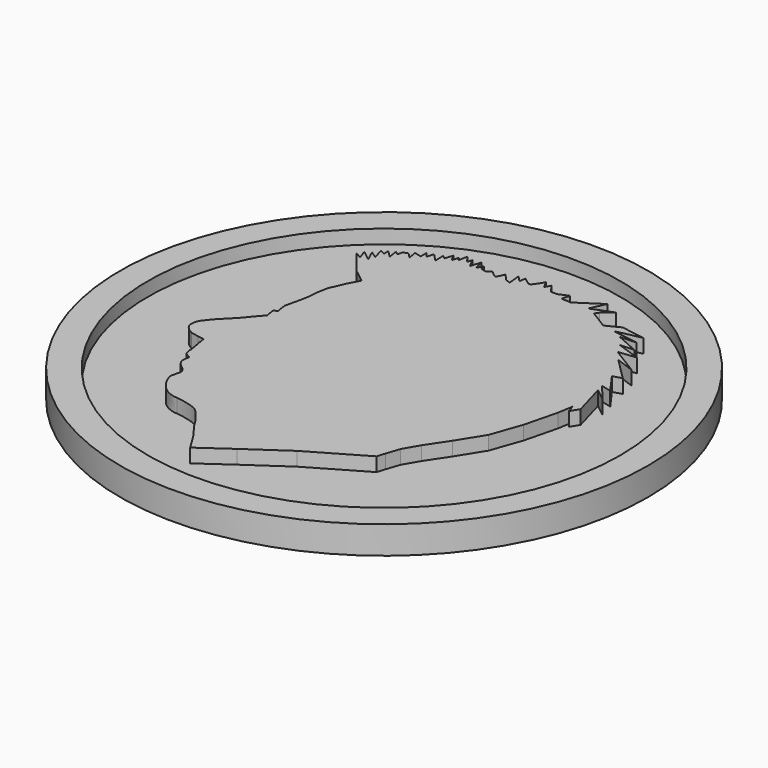
from build123d import *

# Parameters (mm, degrees)
CYLINDER001_R     = 17
CYLINDER001_DEPTH = 4
CYLINDER_R        = 19
CYLINDER_DEPTH    = 2
EXTRUDE_DEPTH     = 1


with BuildPart() as base_int:
    # Cylinder001 → Cylinder001 (new body)
    with BuildSketch(Plane.XY.offset(1)):
        Circle(CYLINDER001_R)
    extrude(amount=CYLINDER001_DEPTH)


with BuildPart() as cut:
    # Cylinder → Cylinder (new body)
    with BuildSketch(Plane.XY):
        Circle(CYLINDER_R)
    extrude(amount=CYLINDER_DEPTH)

    # Cut: cut base-int
    add(base_int.part, mode=Mode.SUBTRACT)


with BuildPart() as fusion:
    # path4167 → Extrude (new body)
    with BuildSketch(Plane(origin=(20.236395, -20.48691, 0), x_dir=(0, -1, 0), z_dir=(0, 0, -1))):
        with BuildLine():
            add(Edge.make_bspline(
                [(14.146302, 2.492305), (12.848887, 3.288234)],
                knots=[0, 0, 5.393268, 5.393268], degree=1))
            add(Edge.make_bspline(
                [(12.848887, 3.288234), (12.074997, 3.879495)],
                knots=[0, 0, 3.450853, 3.450853], degree=1))
            add(Edge.make_bspline(
                [(12.074997, 3.879495), (11.437683, 4.288827)],
                knots=[0, 0, 2.683859, 2.683859], degree=1))
            add(Edge.make_bspline(
                [(11.437683, 4.288827), (11.437683, 4.288827), (10.754821, 4.743645), (10.39065, 5.152975)],
                knots=[0, 0, 0, 0, 1, 1, 1, 1], degree=3))
            add(Edge.make_bspline(
                [(10.39065, 5.152975), (10.026465, 5.562313), (9.867136, 6.858534), (9.867136, 6.858534)],
                knots=[0, 0, 0, 0, 1, 1, 1, 1], degree=3))
            add(Edge.make_bspline(
                [(9.867136, 6.858534), (9.867136, 6.858534), (9.91265, 7.449795), (9.366375, 8.041056)],
                knots=[0, 0, 0, 0, 1, 1, 1, 1], degree=3))
            add(Edge.make_bspline(
                [(9.366375, 8.041056), (8.820106, 8.632312), (8.046205, 8.814241), (8.046205, 8.814241)],
                knots=[0, 0, 0, 0, 1, 1, 1, 1], degree=3))
            add(Edge.make_bspline(
                [(8.046205, 8.814241), (7.313065, 8.651015)],
                knots=[0, 0, 2.661344, 2.661344], degree=1))
            add(Edge.make_bspline(
                [(7.313065, 8.651015), (7.313065, 8.651015), (7.256739, 8.642943), (7.144076, 8.675117)],
                knots=[0, 0, 0, 0, 1, 1, 1, 1], degree=3))
            add(Edge.make_bspline(
                [(7.144076, 8.675117), (7.031413, 8.707279), (6.862409, 8.892199), (6.862409, 8.892199)],
                knots=[0, 0, 0, 0, 1, 1, 1, 1], degree=3))
            add(Edge.make_bspline(
                [(6.862409, 8.892199), (6.862409, 8.892199), (6.476138, 9.422845), (6.186428, 9.463042)],
                knots=[0, 0, 0, 0, 1, 1, 1, 1], degree=3))
            add(Edge.make_bspline(
                [(6.186428, 9.463042), (5.896718, 9.503244), (5.598968, 9.390683), (5.598968, 9.390683)],
                knots=[0, 0, 0, 0, 1, 1, 1, 1], degree=3))
            add(Edge.make_bspline(
                [(5.598968, 9.390683), (5.598968, 9.390683), (5.519667, 9.553291), (5.383099, 9.746587)],
                knots=[0, 0, 0, 0, 1, 1, 1, 1], degree=3))
            add(Edge.make_bspline(
                [(5.383099, 9.746587), (5.246541, 9.939887), (4.757159, 9.917146), (4.757159, 9.917146)],
                knots=[0, 0, 0, 0, 1, 1, 1, 1], degree=3))
            add(Edge.make_bspline(
                [(4.757159, 9.917146), (3.368699, 10.155923)],
                knots=[0, 0, 4.991959, 4.991959], degree=1))
            add(Edge.make_bspline(
                [(3.368699, 10.155923), (3.289033, 10.610738)],
                knots=[0, 0, 1.636085, 1.636085], degree=1))
            add(Edge.make_bspline(
                [(3.289033, 10.610738), (3.175233, 11.156516)],
                knots=[0, 0, 1.975452, 1.975452], degree=1))
            add(Edge.make_bspline(
                [(3.175233, 11.156516), (3.175233, 11.156516), (2.924862, 11.713665), (2.526528, 11.827372)],
                knots=[0, 0, 0, 0, 1, 1, 1, 1], degree=3))
            add(Edge.make_bspline(
                [(2.526528, 11.827372), (2.128205, 11.941074), (1.718486, 11.679556), (1.718486, 11.679556)],
                knots=[0, 0, 0, 0, 1, 1, 1, 1], degree=3))
            add(Edge.make_bspline(
                [(1.718486, 11.679556), (1.149456, 11.236108)],
                knots=[0, 0, 2.556199, 2.556199], degree=1))
            add(Edge.make_bspline(
                [(1.149456, 11.236108), (0.091049, 10.201405)],
                knots=[0, 0, 5.244615, 5.244615], degree=1))
            add(Edge.make_bspline(
                [(0.091049, 10.201405), (-0.466619, 9.735219)],
                knots=[0, 0, 2.575483, 2.575483], degree=1))
            add(Edge.make_bspline(
                [(-0.466619, 9.735219), (-0.899088, 9.371367)],
                knots=[0, 0, 2.002573, 2.002573], degree=1))
            add(Edge.make_bspline(
                [(-0.899088, 9.371367), (-1.103933, 9.1667)],
                knots=[0, 0, 1.026033, 1.026033], degree=1))
            add(Edge.make_bspline(
                [(-1.103933, 9.1667), (-1.832307, 9.280401)],
                knots=[0, 0, 2.612106, 2.612106], degree=1))
            add(Edge.make_bspline(
                [(-1.832307, 9.280401), (-1.889214, 9.018886)],
                knots=[0, 0, 0.948315, 0.948315], degree=1))
            add(Edge.make_bspline(
                [(-1.889214, 9.018886), (-2.276155, 9.087107)],
                knots=[0, 0, 1.392197, 1.392197], degree=1))
            add(Edge.make_bspline(
                [(-2.276155, 9.087107), (-2.663101, 9.132588)],
                knots=[0, 0, 1.380508, 1.380508], degree=1))
            add(Edge.make_bspline(
                [(-2.663101, 9.132588), (-3.061435, 9.041624)],
                knots=[0, 0, 1.447753, 1.447753], degree=1))
            add(Edge.make_bspline(
                [(-3.061435, 9.041624), (-3.653224, 8.905181)],
                knots=[0, 0, 2.151902, 2.151902], degree=1))
            add(Edge.make_bspline(
                [(-3.653224, 8.905181), (-4.358839, 8.768735)],
                knots=[0, 0, 2.546526, 2.546526], degree=1))
            add(Edge.make_bspline(
                [(-4.358839, 8.768735), (-5.155498, 8.700517)],
                knots=[0, 0, 2.83314, 2.83314], degree=1))
            add(Edge.make_bspline(
                [(-5.155498, 8.700517), (-5.826967, 8.575439)],
                knots=[0, 0, 2.420146, 2.420146], degree=1))
            add(Edge.make_bspline(
                [(-5.826967, 8.575439), (-6.919509, 8.097885)],
                knots=[0, 0, 4.224871, 4.224871], degree=1))
            add(Edge.make_bspline(
                [(-6.919509, 8.097885), (-7.74366, 7.662066)],
                knots=[0, 0, 3.303386, 3.303386], degree=1))
            add(Edge.make_bspline(
                [(-7.74366, 7.662066), (-8.467924, 8.594714)],
                knots=[0, 0, 4.184092, 4.184092], degree=1))
            add(Edge.make_bspline(
                [(-8.467924, 8.594714), (-10.206164, 10.009768)],
                knots=[0, 0, 7.941955, 7.941955], degree=1))
            add(Edge.make_bspline(
                [(-10.206164, 10.009768), (-9.889897, 9.496443)],
                knots=[0, 0, 2.136375, 2.136375], degree=1))
            add(Edge.make_bspline(
                [(-9.889897, 9.496443), (-10.595498, 9.746587)],
                knots=[0, 0, 2.652621, 2.652621], degree=1))
            add(Edge.make_bspline(
                [(-10.595498, 9.746587), (-10.003698, 8.996144)],
                knots=[0, 0, 3.386394, 3.386394], degree=1))
            add(Edge.make_bspline(
                [(-10.003698, 8.996144), (-10.800355, 9.359999)],
                knots=[0, 0, 3.103283, 3.103283], degree=1))
            add(Edge.make_bspline(
                [(-10.800355, 9.359999), (-10.458939, 8.859701)],
                knots=[0, 0, 2.146153, 2.146153], degree=1))
            add(Edge.make_bspline(
                [(-10.458939, 8.859701), (-11.278354, 9.087107)],
                knots=[0, 0, 3.013176, 3.013176], degree=1))
            add(Edge.make_bspline(
                [(-11.278354, 9.087107), (-11.073498, 8.723255)],
                knots=[0, 0, 1.479536, 1.479536], degree=1))
            add(Edge.make_bspline(
                [(-11.073498, 8.723255), (-11.483197, 8.746031)],
                knots=[0, 0, 1.453931, 1.453931], degree=1))
            add(Edge.make_bspline(
                [(-11.483197, 8.746031), (-11.005211, 8.245732)],
                knots=[0, 0, 2.451724, 2.451724], degree=1))
            add(Edge.make_bspline(
                [(-11.005211, 8.245732), (-11.710812, 8.359437)],
                knots=[0, 0, 2.532414, 2.532414], degree=1))
            add(Edge.make_bspline(
                [(-11.710812, 8.359437), (-11.505972, 8.086548)],
                knots=[0, 0, 1.20903, 1.20903], degree=1))
            add(Edge.make_bspline(
                [(-11.505972, 8.086548), (-11.870143, 8.018323)],
                knots=[0, 0, 1.312819, 1.312819], degree=1))
            add(Edge.make_bspline(
                [(-11.870143, 8.018323), (-11.983955, 7.67721)],
                knots=[0, 0, 1.27417, 1.27417], degree=1))
            add(Edge.make_bspline(
                [(-11.983955, 7.67721), (-11.619773, 7.313363)],
                knots=[0, 0, 1.824074, 1.824074], degree=1))
            add(Edge.make_bspline(
                [(-11.619773, 7.313363), (-12.257104, 7.427062)],
                knots=[0, 0, 2.293914, 2.293914], degree=1))
            add(Edge.make_bspline(
                [(-12.257104, 7.427062), (-12.120531, 6.904025)],
                knots=[0, 0, 1.915418, 1.915418], degree=1))
            add(Edge.make_bspline(
                [(-12.120531, 6.904025), (-12.644042, 6.926772)],
                knots=[0, 0, 1.85671, 1.85671], degree=1))
            add(Edge.make_bspline(
                [(-12.644042, 6.926772), (-12.302615, 6.631139)],
                knots=[0, 0, 1.600271, 1.600271], degree=1))
            add(Edge.make_bspline(
                [(-12.302615, 6.631139), (-12.803373, 6.494696)],
                knots=[0, 0, 1.839026, 1.839026], degree=1))
            add(Edge.make_bspline(
                [(-12.803373, 6.494696), (-12.234331, 5.948918)],
                knots=[0, 0, 2.793786, 2.793786], degree=1))
            add(Edge.make_bspline(
                [(-12.234331, 5.948918), (-12.985463, 5.971665)],
                knots=[0, 0, 2.66271, 2.66271], degree=1))
            add(Edge.make_bspline(
                [(-12.985463, 5.971665), (-12.757842, 5.721517)],
                knots=[0, 0, 1.198377, 1.198377], degree=1))
            add(Edge.make_bspline(
                [(-12.757842, 5.721517), (-13.349642, 5.539594)],
                knots=[0, 0, 2.193772, 2.193772], degree=1))
            add(Edge.make_bspline(
                [(-13.349642, 5.539594), (-12.848904, 5.266705)],
                knots=[0, 0, 2.02064, 2.02064], degree=1))
            add(Edge.make_bspline(
                [(-12.848904, 5.266705), (-13.32689, 5.130259)],
                knots=[0, 0, 1.761305, 1.761305], degree=1))
            add(Edge.make_bspline(
                [(-13.32689, 5.130259), (-13.099275, 4.971071)],
                knots=[0, 0, 0.98418, 0.98418], degree=1))
            add(Edge.make_bspline(
                [(-13.099275, 4.971071), (-13.736589, 4.834628)],
                knots=[0, 0, 2.309372, 2.309372], degree=1))
            add(Edge.make_bspline(
                [(-13.736589, 4.834628), (-13.235842, 4.470773)],
                knots=[0, 0, 2.193241, 2.193241], degree=1))
            add(Edge.make_bspline(
                [(-13.235842, 4.470773), (-13.577263, 4.357071)],
                knots=[0, 0, 1.275081, 1.275081], degree=1))
            add(Edge.make_bspline(
                [(-13.577263, 4.357071), (-12.939943, 4.015958)],
                knots=[0, 0, 2.561336, 2.561336], degree=1))
            add(Edge.make_bspline(
                [(-12.939943, 4.015958), (-13.668319, 3.788552)],
                knots=[0, 0, 2.70372, 2.70372], degree=1))
            add(Edge.make_bspline(
                [(-13.668319, 3.788552), (-12.962702, 3.629367)],
                knots=[0, 0, 2.563053, 2.563053], degree=1))
            add(Edge.make_bspline(
                [(-12.962702, 3.629367), (-13.395173, 3.379216)],
                knots=[0, 0, 1.770261, 1.770261], degree=1))
            add(Edge.make_bspline(
                [(-13.395173, 3.379216), (-13.053744, 3.288253)],
                knots=[0, 0, 1.251989, 1.251989], degree=1))
            add(Edge.make_bspline(
                [(-13.053744, 3.288253), (-12.985463, 2.90166)],
                knots=[0, 0, 1.391022, 1.391022], degree=1))
            add(Edge.make_bspline(
                [(-12.985463, 2.90166), (-13.213075, 2.628773)],
                knots=[0, 0, 1.259117, 1.259117], degree=1))
            add(Edge.make_bspline(
                [(-13.213075, 2.628773), (-12.848904, 2.173955)],
                knots=[0, 0, 2.064505, 2.064505], degree=1))
            add(Edge.make_bspline(
                [(-12.848904, 2.173955), (-12.826129, 2.060254)],
                knots=[0, 0, 0.410883, 0.410883], degree=1))
            add(Edge.make_bspline(
                [(-12.826129, 2.060254), (-13.372415, 1.810103)],
                knots=[0, 0, 2.128947, 2.128947], degree=1))
            add(Edge.make_bspline(
                [(-13.372415, 1.810103), (-12.894412, 1.378029)],
                knots=[0, 0, 2.283095, 2.283095], degree=1))
            add(Edge.make_bspline(
                [(-12.894412, 1.378029), (-12.735081, 1.014177)],
                knots=[0, 0, 1.407433, 1.407433], degree=1))
            add(Edge.make_bspline(
                [(-12.735081, 1.014177), (-13.668317, 1.105143)],
                knots=[0, 0, 3.322412, 3.322412], degree=1))
            add(Edge.make_bspline(
                [(-13.668317, 1.105143), (-13.235839, 0.695808)],
                knots=[0, 0, 2.109955, 2.109955], degree=1))
            add(Edge.make_bspline(
                [(-13.235839, 0.695808), (-13.691069, 0.627586)],
                knots=[0, 0, 1.631032, 1.631032], degree=1))
            add(Edge.make_bspline(
                [(-13.691069, 0.627586), (-13.34964, 0.172768)],
                knots=[0, 0, 2.015122, 2.015122], degree=1))
            add(Edge.make_bspline(
                [(-13.34964, 0.172768), (-13.34964, 0.172768), (-13.304129, 0.150021), (-13.304129, 0.013584)],
                knots=[0, 0, 0, 0, 1, 1, 1, 1], degree=3))
            add(Edge.make_bspline(
                [(-13.304129, 0.013584), (-13.304129, -0.122859), (-14.078016, -0.554936), (-14.078016, -0.554936)],
                knots=[0, 0, 0, 0, 1, 1, 1, 1], degree=3))
            add(Edge.make_bspline(
                [(-14.078016, -0.554936), (-13.531741, -0.827822)],
                knots=[0, 0, 2.163691, 2.163691], degree=1))
            add(Edge.make_bspline(
                [(-13.531741, -0.827822), (-13.941443, -1.055231)],
                knots=[0, 0, 1.660336, 1.660336], degree=1))
            add(Edge.make_bspline(
                [(-13.941443, -1.055231), (-13.326887, -1.487305)],
                knots=[0, 0, 2.661886, 2.661886], degree=1))
            add(Edge.make_bspline(
                [(-13.326887, -1.487305), (-13.326887, -1.94212)],
                knots=[0, 0, 1.61155, 1.61155], degree=1))
            add(Edge.make_bspline(
                [(-13.326887, -1.94212), (-13.622786, -2.647086)],
                knots=[0, 0, 2.709026, 2.709026], degree=1))
            add(Edge.make_bspline(
                [(-13.622786, -2.647086), (-13.053741, -2.46516)],
                knots=[0, 0, 2.116837, 2.116837], degree=1))
            add(Edge.make_bspline(
                [(-13.053741, -2.46516), (-13.008227, -3.170123)],
                knots=[0, 0, 2.503101, 2.503101], degree=1))
            add(Edge.make_bspline(
                [(-13.008227, -3.170123), (-14.146302, -4.898421)],
                knots=[0, 0, 7.332359, 7.332359], degree=1))
            add(Edge.make_bspline(
                [(-14.146302, -4.898421), (-13.053741, -4.398123)],
                knots=[0, 0, 4.257853, 4.257853], degree=1))
            add(Edge.make_bspline(
                [(-13.053741, -4.398123), (-13.645544, -5.9445)],
                knots=[0, 0, 5.866837, 5.866837], degree=1))
            add(Edge.make_bspline(
                [(-13.645544, -5.9445), (-13.053741, -5.216793)],
                knots=[0, 0, 3.323517, 3.323517], degree=1))
            add(Edge.make_bspline(
                [(-13.053741, -5.216793), (-12.780612, -5.034867)],
                knots=[0, 0, 1.162813, 1.162813], degree=1))
            add(Edge.make_bspline(
                [(-12.780612, -5.034867), (-11.961197, -6.35383)],
                knots=[0, 0, 5.501952, 5.501952], degree=1))
            add(Edge.make_bspline(
                [(-11.961197, -6.35383), (-12.461941, -7.354423)],
                knots=[0, 0, 3.964598, 3.964598], degree=1))
            add(Edge.make_bspline(
                [(-12.461941, -7.354423), (-12.188812, -9.082724)],
                knots=[0, 0, 6.199899, 6.199899], degree=1))
            add(Edge.make_bspline(
                [(-12.188812, -9.082724), (-12.188812, -9.082724), (-11.824624, -7.127017), (-11.779098, -7.308943)],
                knots=[0, 0, 0, 0, 1, 1, 1, 1], degree=3))
            add(Edge.make_bspline(
                [(-11.779098, -7.308943), (-11.733582, -7.490869), (-11.505969, -9.128207), (-11.505969, -9.128207)],
                knots=[0, 0, 0, 0, 1, 1, 1, 1], degree=3))
            add(Edge.make_bspline(
                [(-11.505969, -9.128207), (-11.460439, -7.945684)],
                knots=[0, 0, 4.193145, 4.193145], degree=1))
            add(Edge.make_bspline(
                [(-11.460439, -7.945684), (-10.732063, -9.583019)],
                knots=[0, 0, 6.349738, 6.349738], degree=1))
            add(Edge.make_bspline(
                [(-10.732063, -9.583019), (-10.686551, -8.582428)],
                knots=[0, 0, 3.549066, 3.549066], degree=1))
            add(Edge.make_bspline(
                [(-10.686551, -8.582428), (-10.094751, -10.265243)],
                knots=[0, 0, 6.320701, 6.320701], degree=1))
            add(Edge.make_bspline(
                [(-10.094751, -10.265243), (-9.958175, -8.991761)],
                knots=[0, 0, 4.538216, 4.538216], degree=1))
            add(Edge.make_bspline(
                [(-9.958175, -8.991761), (-8.729044, -10.992948)],
                knots=[0, 0, 8.321503, 8.321503], degree=1))
            add(Edge.make_bspline(
                [(-8.729044, -10.992948), (-9.229805, -9.628502)],
                knots=[0, 0, 5.149967, 5.149967], degree=1))
            add(Edge.make_bspline(
                [(-9.229805, -9.628502), (-7.636497, -11.220357)],
                knots=[0, 0, 7.980415, 7.980415], degree=1))
            add(Edge.make_bspline(
                [(-7.636497, -11.220357), (-7.454399, -10.583613)],
                knots=[0, 0, 2.346629, 2.346629], degree=1))
            add(Edge.make_bspline(
                [(-7.454399, -10.583613), (-5.997666, -11.629689)],
                knots=[0, 0, 6.354628, 6.354628], degree=1))
            add(Edge.make_bspline(
                [(-5.997666, -11.629689), (-6.179756, -10.901985)],
                knots=[0, 0, 2.657977, 2.657977], degree=1))
            add(Edge.make_bspline(
                [(-6.179756, -10.901985), (-4.950639, -11.902578)],
                knots=[0, 0, 5.615797, 5.615797], degree=1))
            add(Edge.make_bspline(
                [(-4.950639, -11.902578), (-5.633481, -11.038431)],
                knots=[0, 0, 3.902506, 3.902506], degree=1))
            add(Edge.make_bspline(
                [(-5.633481, -11.038431), (-3.220764, -11.720652)],
                knots=[0, 0, 8.88419, 8.88419], degree=1))
            add(Edge.make_bspline(
                [(-3.220764, -11.720652), (-2.628963, -11.3568)],
                knots=[0, 0, 2.461555, 2.461555], degree=1))
            add(Edge.make_bspline(
                [(-2.628963, -11.3568), (-3.175233, -11.174874)],
                knots=[0, 0, 2.040118, 2.040118], degree=1))
            add(Edge.make_bspline(
                [(-3.175233, -11.174874), (-2.082674, -10.992948)],
                knots=[0, 0, 3.924572, 3.924572], degree=1))
            add(Edge.make_bspline(
                [(-2.082674, -10.992948), (0.284518, -10.401687)],
                knots=[0, 0, 8.645372, 8.645372], degree=1))
            add(Edge.make_bspline(
                [(0.284518, -10.401687), (2.469635, -9.628502)],
                knots=[0, 0, 8.212947, 8.212947], degree=1))
            add(Edge.make_bspline(
                [(2.469635, -9.628502), (4.290555, -8.491465)],
                knots=[0, 0, 7.60665, 7.60665], degree=1))
            add(Edge.make_bspline(
                [(4.290555, -8.491465), (5.792813, -7.490869)],
                knots=[0, 0, 6.395616, 6.395616], degree=1))
            add(Edge.make_bspline(
                [(5.792813, -7.490869), (6.885374, -6.854128)],
                knots=[0, 0, 4.480749, 4.480749], degree=1))
            add(Edge.make_bspline(
                [(6.885374, -6.854128), (7.841348, -6.535756)],
                knots=[0, 0, 3.570218, 3.570218], degree=1))
            add(Edge.make_bspline(
                [(7.841348, -6.535756), (8.433151, -6.35383)],
                knots=[0, 0, 2.193785, 2.193785], degree=1))
            add(Edge.make_bspline(
                [(8.433151, -6.35383), (10.709315, -2.442416)],
                knots=[0, 0, 16.03521, 16.03521], degree=1))
            add(Edge.make_bspline(
                [(10.709315, -2.442416), (12.621275, 0.331953)],
                knots=[0, 0, 11.938742, 11.938742], degree=1))
            add(Edge.make_bspline(
                [(12.621275, 0.331953), (14.146302, 2.492305)],
                knots=[0, 0, 9.369906, 9.369906], degree=1))
        make_face()
    extrude(amount=EXTRUDE_DEPTH)


with BuildPart() as fusion_1:
    # Extrude placement: moved
    add(fusion.part.moved(Location((-20.216773, 20.276093, 2))))

    # Fusion: union Cut
    add(cut.part)


solid = fusion_1.part
